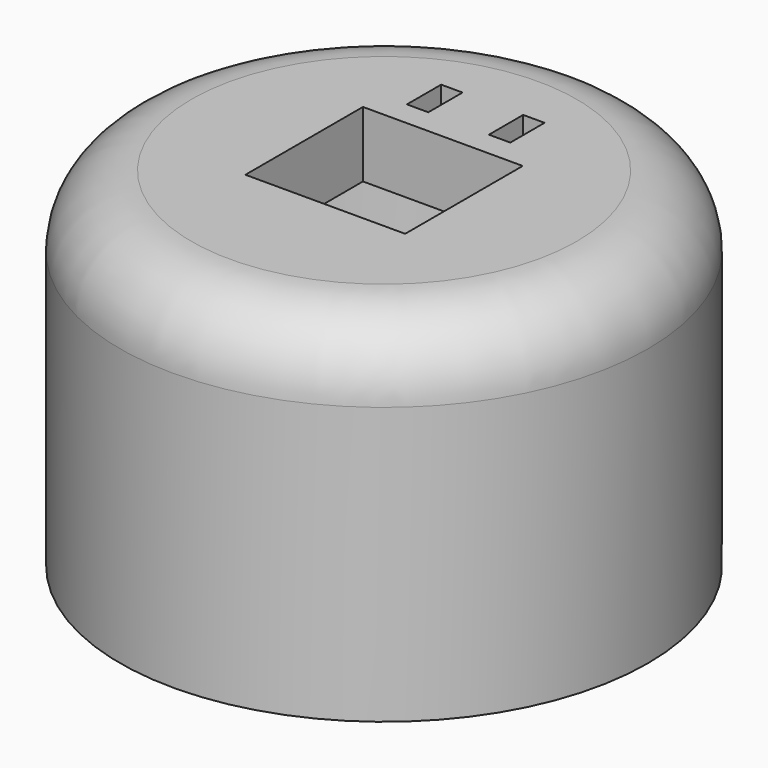
from build123d import *

# Parameters (mm, degrees)
F0_R      = 18.5
F1_DEPTH  = 24.4
F2_T      = -2
F3_R      = 5
F4_R      = 5
F5_W      = 11.2
F5_H      = 10.3
F6_DEPTH  = 25
F7_W      = 8
F7_H      = 32.8909642994
F8_DEPTH  = 6
F9_R      = 17.85
F10_DEPTH = 3
F5_W_2    = 13.2
F5_H_2    = 12.3
F11_DEPTH = 4.6
F13_DEPTH = 10
F14_W     = 1.5
F14_H     = 3
F15_DEPTH = 25


with BuildPart() as f1:
    # F0 (on Top) → F1 (new body)
    with BuildSketch(Plane.XY):
        Circle(F0_R)
    extrude(amount=F1_DEPTH)

    # F2
    f2_openings = [f1.faces().sort_by_distance(p)[0] for p in [
        (0, 0, 0),
    ]]
    offset(amount=F2_T, openings=f2_openings)

    # F3
    f3_edges = [f1.edges().sort_by_distance(p)[0] for p in [
        (-16.5, 0, 22.4),
    ]]
    fillet(f3_edges, radius=F3_R)

    # F4
    f4_edges = [f1.edges().sort_by_distance(p)[0] for p in [
        (-18.5, 0, 24.4),
    ]]
    fillet(f4_edges, radius=F4_R)

    # F5 (on face) → F6 (cut)
    with BuildSketch(Plane.XY.offset(24.4)):
        Rectangle(F5_W, F5_H)
    extrude(amount=-F6_DEPTH, mode=Mode.SUBTRACT)

    # F7 (on face) → F8 (cut)
    with BuildSketch(Plane(origin=(0, 0, 0), x_dir=(1, 0, 0), z_dir=(0, 0, -1))):
        with Locations((0, -3.944914788)):
            Rectangle(F7_W, F7_H)
    extrude(amount=-F8_DEPTH, mode=Mode.SUBTRACT)

    # F9 (on face) + F7 (on face) → F10 (cut)
    with BuildSketch(Plane(origin=(0, 0, 0), x_dir=(1, 0, 0), z_dir=(0, 0, -1))):
        Circle(F9_R)
    with BuildSketch(Plane(origin=(0, 0, 0), x_dir=(1, 0, 0), z_dir=(0, 0, -1))):
        with Locations((0, -3.944914788)):
            Rectangle(F7_W, F7_H)
    extrude(amount=-F10_DEPTH, mode=Mode.SUBTRACT)

    # F5 (on face) → F11 (join)
    with BuildSketch(Plane.XY.offset(24.4)):
        Rectangle(F5_W_2, F5_H_2)
        Rectangle(F5_W, F5_H, mode=Mode.SUBTRACT)
    extrude(amount=-F11_DEPTH)

    # F12 (on face) → F13 (join)
    with BuildSketch(Plane(origin=(0, 6.15, 0), x_dir=(-1, 0, 0), z_dir=(0, 1, 0))):
        with BuildLine():
            Line((2.4086248595, 22.4), (-1.8398975953, 22.4))
            ThreePointArc((-1.8398975953, 22.4), (0.2843636321, 19.8238066567), (2.4086248595, 22.4))
        make_face()
    extrude(amount=F13_DEPTH)

    # F14 (on face) → F15 (cut)
    with BuildSketch(Plane(origin=(0, 0, 22.4), x_dir=(1, 0, 0), z_dir=(0, 0, -1))):
        with Locations((-3.1586248595, -8.3878219724)):
            Rectangle(F14_W, F14_H)
        with Locations((2.5898975953, -8.3878219724)):
            Rectangle(F14_W, F14_H)
    extrude(amount=-F15_DEPTH, mode=Mode.SUBTRACT)


solid = f1.part
